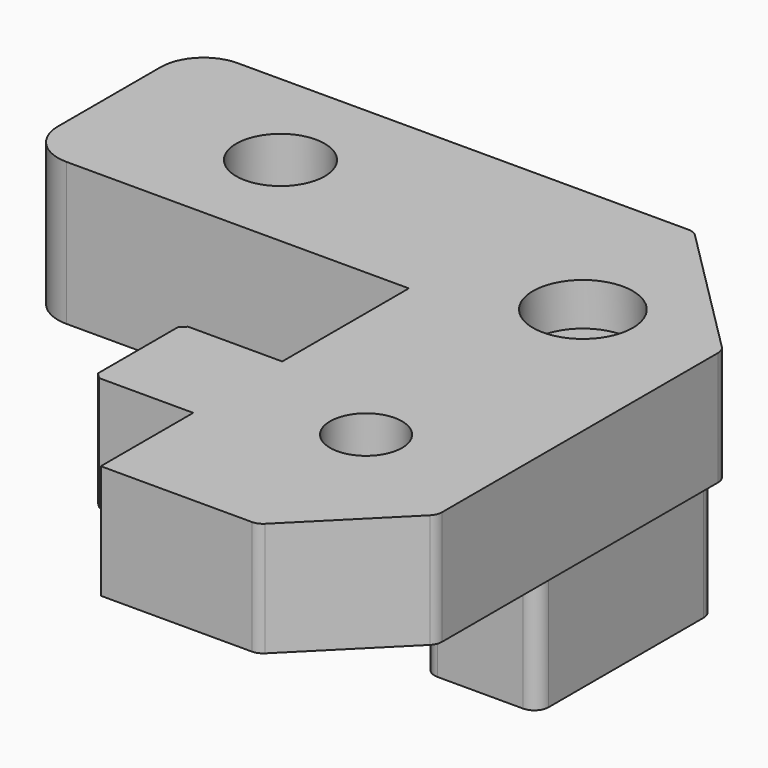
from build123d import *

# Parameters (mm, degrees)
CYLINDER006_R     = 3.5
CYLINDER006_DEPTH = 10
CYLINDER005_R     = 1.65
CYLINDER005_DEPTH = 31
CYLINDER001_R     = 2.525
CYLINDER001_DEPTH = 35
CYLINDER009_R     = 3.1
CYLINDER009_DEPTH = 19
BOX013_W          = 7.8
BOX013_H          = 15
BOX013_DEPTH      = 1
BOX015_W          = 8
BOX015_H          = 20
BOX015_DEPTH      = 12
CHAMFER007_SIZE   = 5
FILLET001_R       = 1
FILLET_R          = 1
BOX009_W          = 7
BOX009_H          = 7.8
BOX009_DEPTH      = 8
CHAMFER006_SIZE   = 0.4
BOX010_W          = 18
BOX010_H          = 42
BOX010_DEPTH      = 8
CHAMFER008_SIZE   = 7
CHAMFER009_SIZE   = 10
FILLET003_R       = 1
BOX011_W          = 27
BOX011_H          = 15
BOX011_DEPTH      = 10
FILLET004_R       = 3


with BuildPart() as cylinder006:
    # Cylinder006 → Cylinder006 (new body)
    with BuildSketch(Plane(origin=(9, 34, 37), x_dir=(1, 0, 0), z_dir=(0, 0, 1))):
        Circle(CYLINDER006_R)
    extrude(amount=CYLINDER006_DEPTH)


with BuildPart() as fusion009:
    # Cylinder005 → Cylinder005 (new body)
    with BuildSketch(Plane(origin=(9, 34, 19), x_dir=(1, 0, 0), z_dir=(0, 0, 1))):
        Circle(CYLINDER005_R)
    extrude(amount=CYLINDER005_DEPTH)

    # Fusion009: union Cylinder006
    add(cylinder006.part)


with BuildPart() as cylinder001:
    # Cylinder001 → Cylinder001 (new body)
    with BuildSketch(Plane(origin=(9, 15, 5), x_dir=(1, 0, 0), z_dir=(0, 0, 1))):
        Circle(CYLINDER001_R)
    extrude(amount=CYLINDER001_DEPTH)


with BuildPart() as cylinder009:
    # Cylinder009 → Cylinder009 (new body)
    with BuildSketch(Plane(origin=(-15, 37.5, 25), x_dir=(1, 0, 0), z_dir=(0, 0, 1))):
        Circle(CYLINDER009_R)
    extrude(amount=CYLINDER009_DEPTH)


with BuildPart() as cube013:
    # Box013 → Box013 (new body)
    with BuildSketch(Plane(origin=(-18.9, 30, 29), x_dir=(1, 0, 0), z_dir=(0, 0, 1))):
        with Locations((3.9, 7.5)):
            Rectangle(BOX013_W, BOX013_H)
    extrude(amount=BOX013_DEPTH)


with BuildPart() as fillet_body:
    # Box015 → Box015 (new body)
    with BuildSketch(Plane(origin=(7, 25, 20), x_dir=(1, 0, 0), z_dir=(0, 0, 1))):
        with Locations((4, 10)):
            Rectangle(BOX015_W, BOX015_H)
    extrude(amount=BOX015_DEPTH)

    # Chamfer007
    chamfer007_edges = [fillet_body.edges().sort_by_distance(p)[0] for p in [
        (15, 45, 26),
    ]]
    chamfer(chamfer007_edges, length=CHAMFER007_SIZE)

    # Fillet001
    fillet001_edges = [fillet_body.edges().sort_by_distance(p)[0] for p in [
        (15, 40, 26),
        (15, 25, 26),
        (7, 25, 26),
        (7, 45, 26),
    ]]
    fillet(fillet001_edges, radius=FILLET001_R)


with BuildPart() as fillet_body_1:
    # Fillet001 placement: moved
    add(fillet_body.part.moved(Location((-2, 0, 0))))

    # Fillet
    fillet_edges = [fillet_body_1.edges().sort_by_distance(p)[0] for p in [
        (8, 45, 26),
    ]]
    fillet(fillet_edges, radius=FILLET_R)


with BuildPart() as chamfer006:
    # Box009 → Box009 (new body)
    with BuildSketch(Plane(origin=(-7, 11.1, 32), x_dir=(1, 0, 0), z_dir=(0, 0, 1))):
        with Locations((3.5, 3.9)):
            Rectangle(BOX009_W, BOX009_H)
    extrude(amount=BOX009_DEPTH)

    # Chamfer006
    chamfer006_edges = [chamfer006.edges().sort_by_distance(p)[0] for p in [
        (-7, 11.1, 36),
        (-7, 18.9, 36),
    ]]
    chamfer(chamfer006_edges, length=CHAMFER006_SIZE)


with BuildPart() as fillet003:
    # Box010 → Box010 (new body)
    with BuildSketch(Plane(origin=(0, 3, 32), x_dir=(1, 0, 0), z_dir=(0, 0, 1))):
        with Locations((9, 21)):
            Rectangle(BOX010_W, BOX010_H)
    extrude(amount=BOX010_DEPTH)

    # Chamfer008
    chamfer008_edges = [fillet003.edges().sort_by_distance(p)[0] for p in [
        (18, 3, 36),
    ]]
    chamfer(chamfer008_edges, length=CHAMFER008_SIZE)

    # Chamfer009
    chamfer009_edges = [fillet003.edges().sort_by_distance(p)[0] for p in [
        (18, 45, 36),
    ]]
    chamfer(chamfer009_edges, length=CHAMFER009_SIZE)

    # Fillet003
    fillet003_edges = [fillet003.edges().sort_by_distance(p)[0] for p in [
        (18, 35, 36),
        (18, 10, 36),
        (8, 45, 36),
        (11, 3, 36),
    ]]
    fillet(fillet003_edges, radius=FILLET003_R)


with BuildPart() as cut002002002009004:
    # Box011 → Box011 (new body)
    with BuildSketch(Plane(origin=(-27, 30, 30), x_dir=(1, 0, 0), z_dir=(0, 0, 1))):
        with Locations((13.5, 7.5)):
            Rectangle(BOX011_W, BOX011_H)
    extrude(amount=BOX011_DEPTH)

    # Fillet004
    fillet004_edges = [cut002002002009004.edges().sort_by_distance(p)[0] for p in [
        (-27, 30, 35),
        (-27, 45, 35),
    ]]
    fillet(fillet004_edges, radius=FILLET004_R)

    # Fusion010: union Cube013, Fillet body, Chamfer006, Fillet003
    add(cube013.part)
    add(fillet_body_1.part)
    add(chamfer006.part)
    add(fillet003.part)

    # Cut002002002009002: cut Cylinder009
    add(cylinder009.part, mode=Mode.SUBTRACT)

    # Cut002002002009003: cut Cylinder001
    add(cylinder001.part, mode=Mode.SUBTRACT)

    # Cut002002002009004: cut Fusion009
    add(fusion009.part, mode=Mode.SUBTRACT)


solid = cut002002002009004.part
